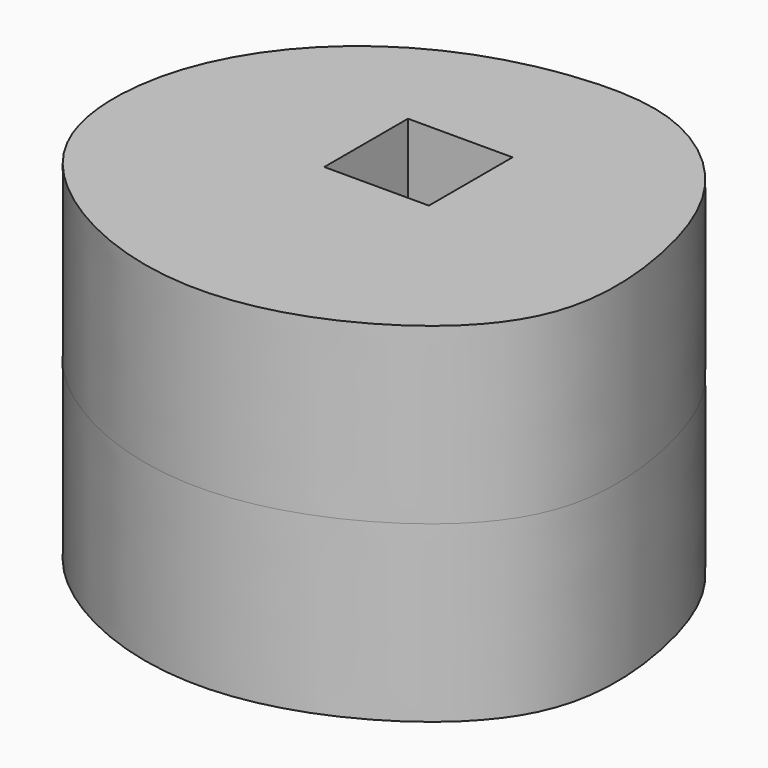
from build123d import *

# Parameters (mm, degrees)
F0_W     = 3
F0_H     = 3
F1_DEPTH = 5


with BuildPart() as f1:
    # F0 (on Top) → F1 (new body, symmetric)
    with BuildSketch(Plane.XY):
        with BuildLine():
            add(Edge.make_bspline(
                [(0, 5.4), (0.9828393456, 5.523251011), (3.1152453507, 5.5343655429), (5.9287574048, 3.3928389205), (7.1886896919, 0.0616891633), (7.4359708845, -4.210376631), (4.0604131185, -7.1442051408), (0.0033785947, -8.2789188865), (-4.0739274974, -7.1401193134), (-7.3890109153, -4.2266056063), (-7.3558997139, 0.1147514575), (-5.3846723817, 3.1441020373), (-2.7626976392, 4.8159756922), (-0.9476146342, 5.2811662738), (0, 5.4)],
                knots=[0, 0, 0, 0, 0.0761781175, 0.1556320872, 0.2381388024, 0.3254846921, 0.4143221509, 0.5031596097, 0.5919970685, 0.6808345272, 0.7681804169, 0.8503739693, 0.9265520868, 1, 1, 1, 1], degree=3))
        make_face()
        Rectangle(F0_W, F0_H, mode=Mode.SUBTRACT)
    extrude(amount=F1_DEPTH, both=True)


solid = f1.part
